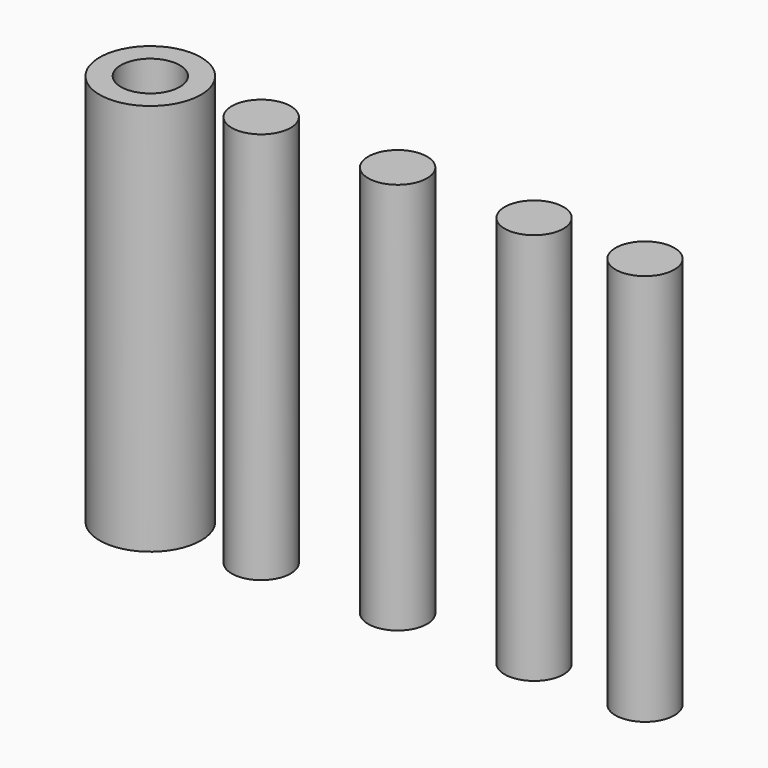
from build123d import *

# Parameters (mm, degrees)
F0_R     = 1.5
F0_R_2   = 2.583
F1_DEPTH = 20


with BuildPart() as f1:
    # F0 (on Top) → F1 (new body)
    with BuildSketch(Plane.XY):
        Circle(F0_R)
        with Locations((6.954546, 0)):
            Circle(F0_R)
        with Locations((12.603714, 0)):
            Circle(F0_R)
        with Locations((-6.954546, 0)):
            Circle(F0_R)
        with Locations((-12.603714, 0)):
            Circle(F0_R_2)
        with Locations((-12.603714, 0)):
            Circle(F0_R, mode=Mode.SUBTRACT)
    extrude(amount=F1_DEPTH)


solid = f1.part
